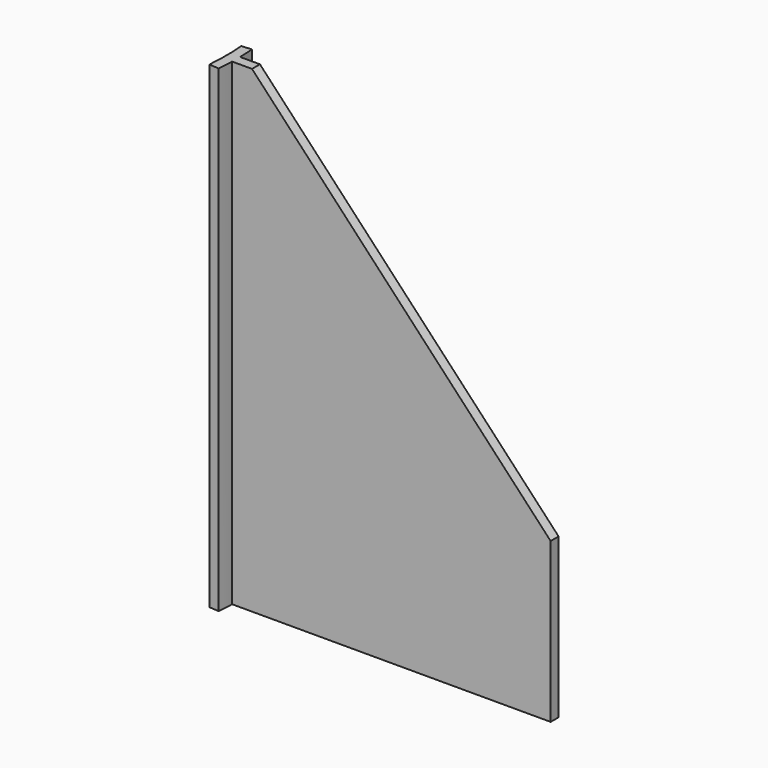
from build123d import *

# Parameters (mm, degrees)
F1_DEPTH = 76.2
F3_DEPTH = 1.5875


with BuildPart() as f1:
    # F0 (on Top) → F1 (new body)
    with BuildSketch(Plane.XY):
        with BuildLine():
            Line((50.8, 0), (0, 0))
            ThreePointArc((0, 0), (-0.046113, 1.259244), (-0.132987, 2.516333))
            Line((-0.132987, 2.516333), (-1.71473, 2.38125))
            ThreePointArc((-1.71473, 2.38125), (-1.579401, -0.79375), (-1.71473, -3.96875))
            Line((-1.71473, -3.96875), (-0.132987, -4.103833))
            ThreePointArc((-0.132987, -4.103833), (-0.046113, -2.846744), (0, -1.5875))
            Line((0, -1.5875), (50.8, -1.5875))
            Line((50.8, -1.5875), (50.8, 0))
        make_face()
    extrude(amount=F1_DEPTH)

    # F2 (on face) → F3 (cut, through all)
    with BuildSketch(Plane.XZ.offset(1.5875)):
        Polygon((50.8, 76.2), (3.175, 76.2), (50.8, 25.4), align=None)
    extrude(amount=-F3_DEPTH, mode=Mode.SUBTRACT)


solid = f1.part
